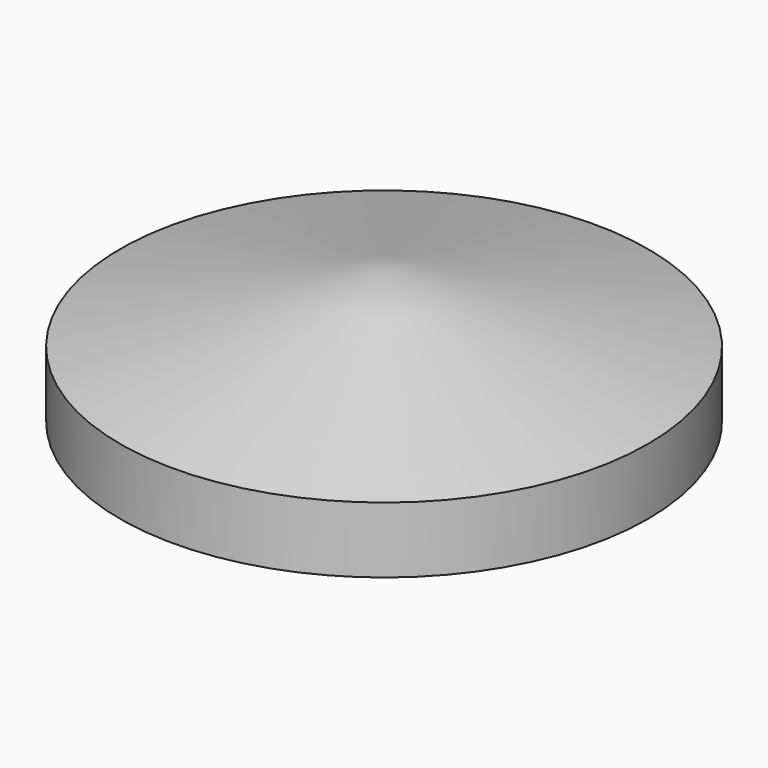
from build123d import *

# Parameters (mm, degrees)
F0_R     = 8
F0_R_2   = 4.5
F2_DEPTH = 2
F3_DEPTH = 1


with BuildPart() as f2:
    # F0 (on Top) → F2 (new body)
    with BuildSketch(Plane.XY):
        Circle(F0_R)
        Circle(F0_R_2, mode=Mode.SUBTRACT)
    extrude(amount=-F2_DEPTH)

    # F0 (on Top) → F3 (join)
    with BuildSketch(Plane.XY):
        Circle(F0_R_2)
    extrude(amount=-F3_DEPTH)

    # F1 (on Front) → F4 (revolve)
    with BuildSketch(Plane.XZ):
        Polygon((0, 2), (0, 0), (8, 0), align=None)
    revolve(axis=Axis((0, 0, 1), (0, 0, 1)))


solid = f2.part
